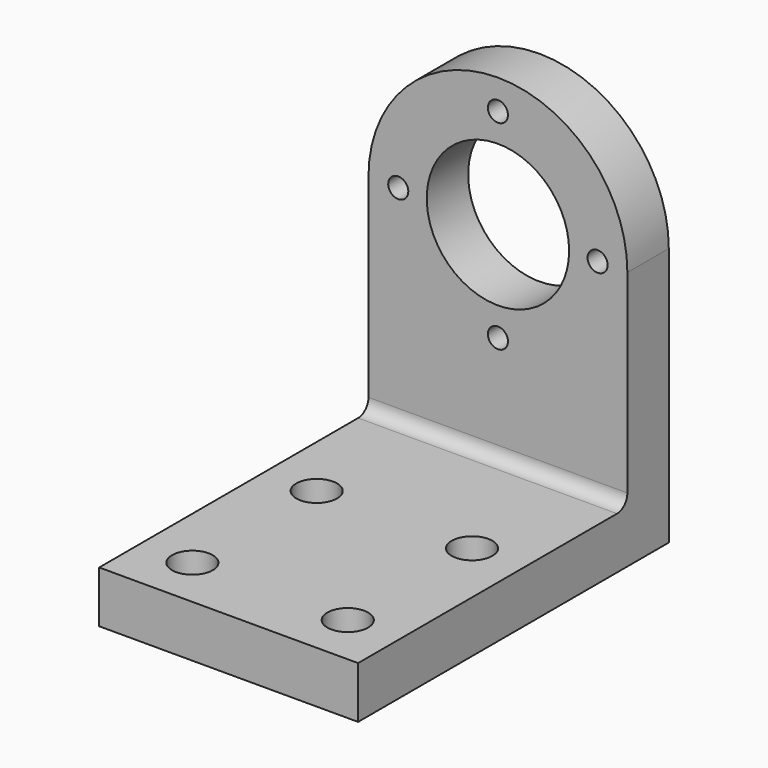
from build123d import *

# Parameters (mm, degrees)
F0_R           = 55
F1_DEPTH       = 40
F2_DEPTH       = 300
F3_D           = 15.5
F5_D           = 17.5
F5_CBORE_D     = 31.5
F5_CBORE_DEPTH = 20
F7_DEPTH       = 200


with BuildPart() as f1:
    # F0 (on Front) → F1 (new body)
    with BuildSketch(Plane.XZ):
        with BuildLine():
            Line((-100, 40), (100, 40))
            Line((100, 40), (100, 200))
            ThreePointArc((100, 200), (0, 300), (-100, 200))
            Line((-100, 200), (-100, 40))
        make_face()
        with Locations((0, 200)):
            Circle(F0_R, mode=Mode.SUBTRACT)
    extrude(amount=F1_DEPTH)

    # F0 (on Front) → F2 (join)
    with BuildSketch(Plane.XZ):
        Polygon((-98.9183791646, 0), (0, 0), (100, 0), (100, 40), (-100, 40), (-100, 0), align=None)
    extrude(amount=F2_DEPTH)

    # F3 (through all)
    with Locations(Plane(origin=(0, 0, 0), x_dir=(1, 0, 0), z_dir=(0, 1, 0))):
        with Locations((0, -277), (-77, -200), (77, -200), (0, -123)):
            Hole(F3_D / 2)

    # F5 (through all)
    with Locations(Plane.XY.offset(40)):
        with Locations((-60, -140), (60, -140), (60, -260), (-60, -260)):
            CounterBoreHole(F5_D / 2, F5_CBORE_D / 2, F5_CBORE_DEPTH)

    # F6 (on face) → F7 (join)
    with BuildSketch(Plane.YZ.offset(100)):
        with BuildLine():
            ThreePointArc((-40, 50), (-42.9289321881, 42.9289321881), (-50, 40))
            Line((-50, 40), (-40, 40))
            Line((-40, 40), (-40, 50))
        make_face()
    extrude(amount=-F7_DEPTH)


solid = f1.part
